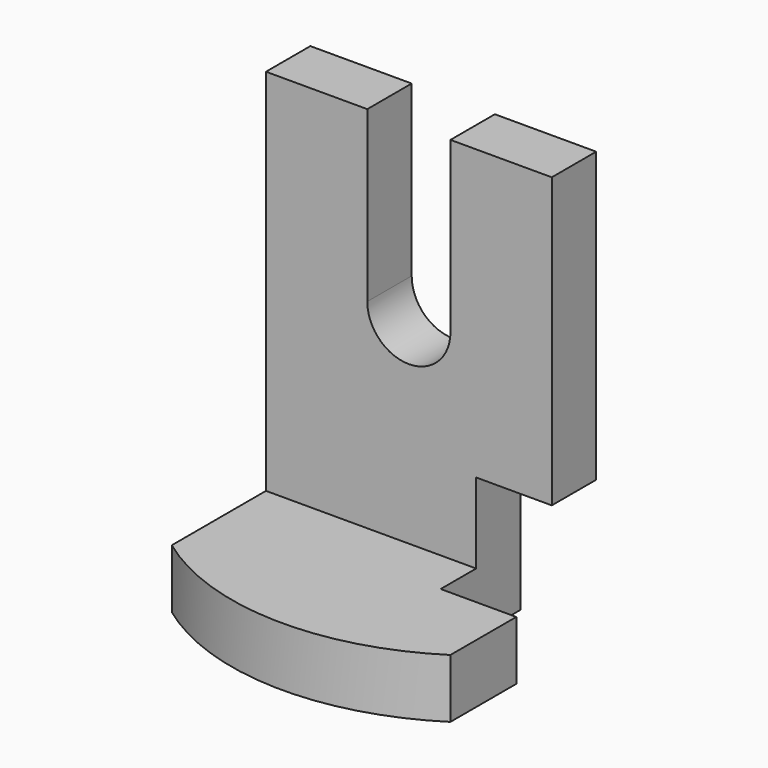
from build123d import *

# Parameters (mm, degrees)
F1_DEPTH = 10.16
F0_W     = 52.324884
F0_H     = 10.78823
F2_DEPTH = 45.212
F4_DEPTH = 25.4
F5_W     = 14.396261
F5_H     = 25.470311
F6_DEPTH = 18.288


with BuildPart() as f1:
    # F0 (on Front) → F1 (new body)
    with BuildSketch(Plane.XZ):
        with BuildLine():
            Line((26.162442, -28.381733), (26.162442, 39.169963))
            Line((26.162442, 39.169963), (7.613408, 39.169963))
            Line((7.613408, 39.169963), (7.613408, 8.162629))
            ThreePointArc((7.613408, 8.162629), (0, 0.54922), (-7.613408, 8.162629))
            Line((-7.613408, 8.162629), (-7.613408, 39.169963))
            Line((-7.613408, 39.169963), (-26.162442, 39.169963))
            Line((-26.162442, 39.169963), (-26.162442, -28.381733))
            Line((-26.162442, -28.381733), (26.162442, -28.381733))
        make_face()
    extrude(amount=F1_DEPTH)

    # F0 (on Front) → F2 (join)
    with BuildSketch(Plane.XZ):
        with Locations((0, -33.775848)):
            Rectangle(F0_W, F0_H)
    extrude(amount=F2_DEPTH)

    # F3 (on face) → F4 (cut)
    with BuildSketch(Plane.XY.offset(-28.381733)):
        with BuildLine():
            ThreePointArc((26.162442, -33.365056), (-0.258226, -40.668626), (-26.162442, -31.703949))
            Line((-26.162442, -31.703949), (-26.162442, -45.212))
            Line((-26.162442, -45.212), (26.162442, -45.212))
            Line((26.162442, -45.212), (26.162442, -33.365056))
        make_face()
    extrude(amount=-F4_DEPTH, mode=Mode.SUBTRACT)

    # F5 (on face) → F6 (cut)
    with BuildSketch(Plane.XZ):
        with Locations((19.51801, -26.443774)):
            Rectangle(F5_W, F5_H)
    extrude(amount=F6_DEPTH, mode=Mode.SUBTRACT)


solid = f1.part
